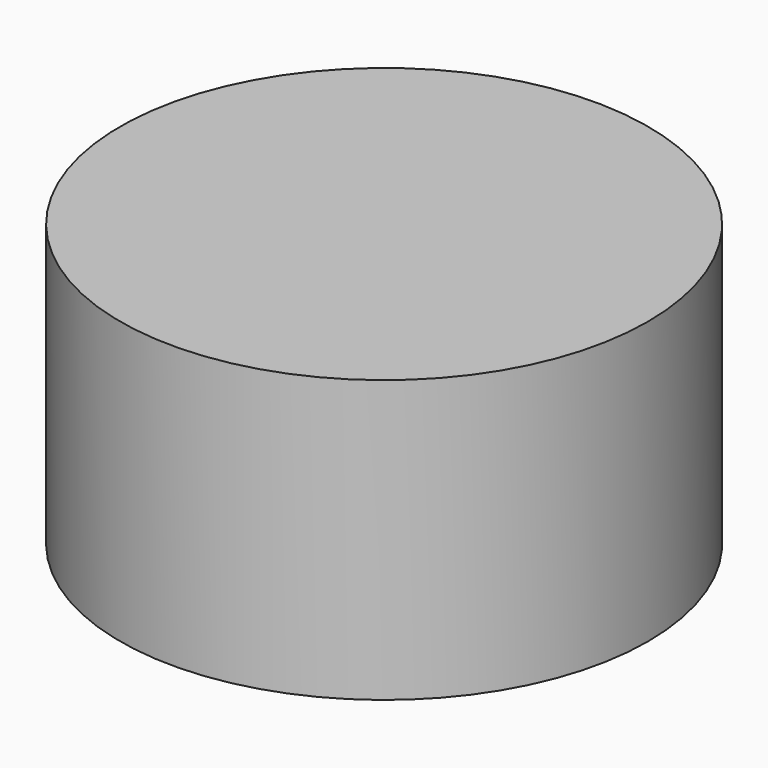
from build123d import *

# Parameters (mm, degrees)
TUBE_R            = 5.2
TUBE_R_2          = 2.5
TUBE_DEPTH        = 3.9
CYLINDER001_R     = 2.65
CYLINDER001_DEPTH = 15
CYLINDER005_R     = 7.5
CYLINDER005_DEPTH = 8


with BuildPart() as lower_shaft_bearing:
    # Tube → Tube (new body)
    with BuildSketch(Plane.XY.offset(9)):
        Circle(TUBE_R)
        Circle(TUBE_R_2, mode=Mode.SUBTRACT)
    extrude(amount=TUBE_DEPTH)


with BuildPart() as lower_shaft_bearing_1:
    # BaseFeature004 placement: moved
    add(lower_shaft_bearing.part.moved(Location((0, 0, -9))))


with BuildPart() as lower_shaft_bearing_2:
    # Body038 placement: moved
    add(lower_shaft_bearing_1.part.moved(Location((0, 0, 9))))


with BuildPart() as fusion001:
    # Cylinder001 → Cylinder001 (new body)
    with BuildSketch(Plane.XY.offset(1.5)):
        Circle(CYLINDER001_R)
    extrude(amount=CYLINDER001_DEPTH)


with BuildPart() as fusion001_1:
    # BaseFeature003 placement: moved
    add(fusion001.part.moved(Location((0, 0, -1.5))))


with BuildPart() as fusion001_2:
    # Body014 placement: moved
    add(fusion001_1.part.moved(Location((0, 0, 1.5))))

    # Fusion001: union lower_shaft_bearing
    add(lower_shaft_bearing_2.part)


with BuildPart() as cut002:
    # Cylinder005 → Cylinder005 (join)
    with BuildSketch(Plane.XY):
        Circle(CYLINDER005_R)
    extrude(amount=CYLINDER005_DEPTH)


with BuildPart() as cut002_1:
    # Body019 placement: moved
    add(cut002.part.moved(Location((0, 0, 10))))

    # Cut002: cut Fusion001
    add(fusion001_2.part, mode=Mode.SUBTRACT)


solid = cut002_1.part
